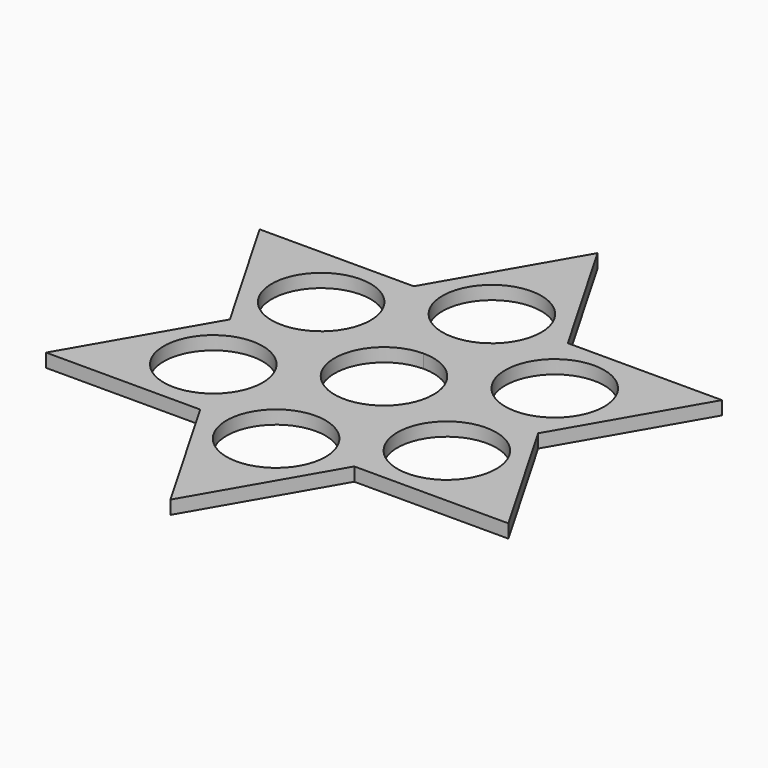
from build123d import *

# Parameters (mm, degrees)
F0_R     = 11
F1_DEPTH = 3


with BuildPart() as f1:
    # F0 (on Top) → F1 (new body)
    with BuildSketch(Plane.XY):
        Polygon((-17.139376, 29.68627), (-51.418128, 29.68627), (-34.278752, 0), (-51.418128, -29.68627), (-17.139376, -29.68627), (0, -59.372541), (17.139376, -29.68627), (51.418128, -29.68627), (34.278752, 0), (51.418128, 29.68627), (17.139376, 29.68627), (0, 59.372541), align=None)
        with Locations((0, -30)):
            Circle(F0_R, mode=Mode.SUBTRACT)
        with Locations((-25.980762, -15)):
            Circle(F0_R, mode=Mode.SUBTRACT)
        with Locations((25.980762, -15)):
            Circle(F0_R, mode=Mode.SUBTRACT)
        with Locations((-25.980762, 15)):
            Circle(F0_R, mode=Mode.SUBTRACT)
        with BuildLine():
            ThreePointArc((0, 11), (7.778175, 7.778175), (11, 0))
            ThreePointArc((11, 0), (-7.778175, -7.778175), (0, 11))
        make_face(mode=Mode.SUBTRACT)
        with BuildLine():
            ThreePointArc((11, 30), (7.778175, 22.221825), (0, 19))
            ThreePointArc((0, 19), (-7.778175, 37.778175), (11, 30))
        make_face(mode=Mode.SUBTRACT)
        with Locations((25.980762, 15)):
            Circle(F0_R, mode=Mode.SUBTRACT)
    extrude(amount=F1_DEPTH)


solid = f1.part
